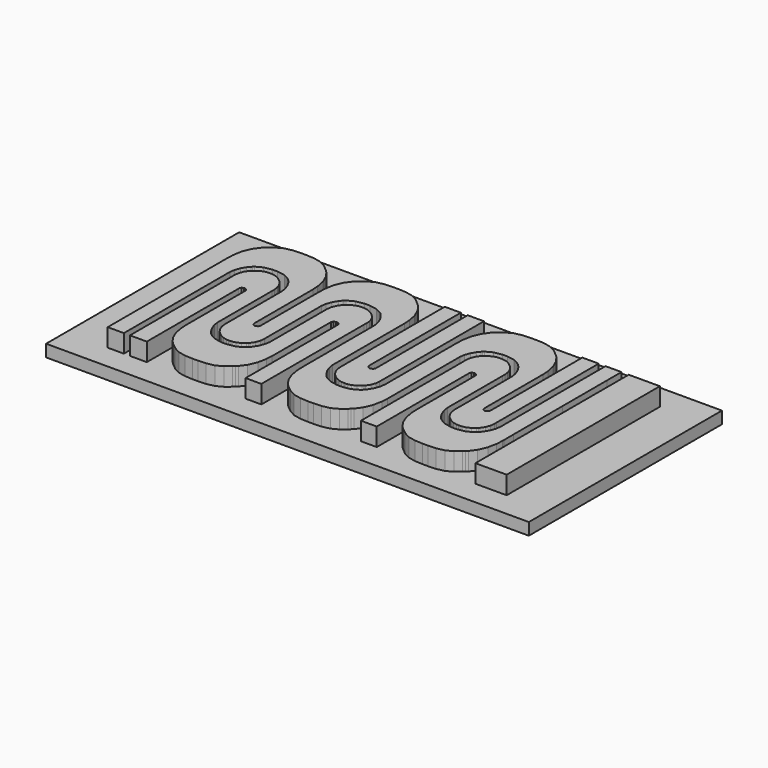
from build123d import *

# Parameters (mm, degrees)
F0_W     = 80
F0_H     = 40
F1_DEPTH = 2
F3_DEPTH = 5


with BuildPart() as f1:
    # F0 (on Top) → F1 (new body)
    with BuildSketch(Plane.XY):
        Rectangle(F0_W, F0_H)
    extrude(amount=F1_DEPTH)

    # F2 (on Top) → F3 (join)
    with BuildSketch(Plane.XY):
        Polygon((7.7198474, -8.9033858), (7.7198474, -8.5368384), (7.7198474, -4.9567084), (7.7198474, 3.0965648), (7.7198474, 5.7795668), (7.7198474, 6.0442348), (7.8384654, 6.8379848), (8.1524094, 7.7282548), (8.5948774, 8.4600288), (8.9641934, 8.9091008), (9.1005914, 9.0442288), (9.2684854, 9.2136468), (10.3281734, 9.7869248), (11.6141754, 10.0198428), (12.0441974, 10.0198428), (12.4714254, 10.0198428), (13.7541254, 9.7869248), (14.8110194, 9.2136468), (14.9806914, 9.0442288), (15.1173434, 8.9078308), (15.4960574, 8.4600288), (15.9590994, 7.7282548), (16.2926014, 6.8379848), (16.4208714, 6.0442348), (16.4208714, 5.7795668), (16.4208714, 3.0483048), (16.4208714, -3.0991048), (16.4208714, -5.1496214), (16.4208714, -5.308092), (16.4150294, -5.7876694), (16.4785294, -6.487668), (16.7266874, -7.2249538), (17.1140374, -7.8106016), (17.2765974, -7.9746094), (17.4363634, -8.13308), (17.9806854, -8.5492336), (18.6118754, -8.8579198), (19.1699134, -8.983345), (19.5336414, -9.0067638), (19.6563234, -9.0067638), (19.7764654, -9.0067638), (20.1373994, -8.983345), (20.6926434, -8.8579198), (21.3212934, -8.5492336), (21.8612974, -8.13308), (22.0210634, -7.9746094), (22.1836234, -7.8106016), (22.5806254, -7.2249538), (22.8452934, -6.487668), (22.9235254, -5.7876694), (22.9263194, -5.308092), (22.9263194, -5.1496214), (22.9263194, 0.0924306), (22.9263194, 11.8857268), (22.9263194, 15.8158688), (22.2496634, 15.8158688), (20.7271874, 15.8158688), (20.2199494, 15.8158688), (20.2199494, 13.4498588), (20.2199494, 6.3472568), (20.2199494, -0.7536688), (20.2199494, -3.121152), (20.2199494, -3.2244792), (20.0822814, -3.5387026), (19.7627494, -3.7123116), (19.6563234, -3.7123116), (19.5613274, -3.7123116), (19.2776094, -3.5387026), (19.1917574, -3.2244792), (19.1917574, -3.121152), (19.1917574, -2.4334978), (19.1917574, -0.370586), (19.1917574, 2.778252), (19.1917574, 5.8994548), (19.1917574, 7.9004668), (19.1917574, 8.5674708), (19.1917574, 8.9339928), (19.1163194, 10.0294948), (18.8280294, 11.4694208), (18.2273194, 12.8405128), (17.5051974, 13.8217148), (17.2158914, 14.0947648), (16.9484294, 14.3485108), (16.0927034, 15.0482808), (15.0413974, 15.6078428), (13.7815574, 15.8725108), (12.4724414, 15.9382968), (12.0370854, 15.9382968), (11.6017294, 15.9382968), (10.2954074, 15.8725108), (9.0398854, 15.6078428), (7.9885794, 15.0482808), (7.1300594, 14.3469868), (6.8625974, 14.0947648), (6.5748154, 13.8229848), (5.8664094, 12.8405128), (5.2997354, 11.4694208), (5.0464974, 10.0294948), (4.9885854, 8.9339928), (4.9885854, 8.5674708), (4.9885854, 8.1387188), (4.9885854, 6.8489068), (4.9885854, 4.7737268), (4.9885854, 2.50952), (4.9885854, 0.2261108), (4.9885854, -1.9098514), (4.9885854, -3.728847), (4.9885854, -5.0655728), (4.9885854, -5.5781956), (4.9885854, -5.7490614), (4.9885854, -6.0136532), (4.8671734, -6.8087748), (4.5529754, -7.7045058), (4.1105074, -8.4417408), (3.7455094, -8.8937338), (3.6103814, -9.0315542), (3.4381694, -9.1996514), (2.3741634, -9.7729294), (1.0901934, -10.0071936), (0.6629654, -10.0071936), (0.2329434, -10.0071936), (-1.0555986, -9.7729294), (-2.1124926, -9.1996514), (-2.2806406, -9.0315542), (-2.4183086, -8.8923622), (-2.7960066, -8.4417408), (-3.2603186, -7.7045058), (-3.5966146, -6.8087748), (-3.7248846, -6.0136532), (-3.7248846, -5.7490614), (-3.7248846, -2.1675344), (-3.7248846, 5.8898028), (-3.7248846, 8.5755988), (-3.7248846, 8.9421208), (-3.8005766, 10.0391468), (-4.0901366, 11.4762788), (-4.6936406, 12.8435608), (-5.4198266, 13.8217148), (-5.7106566, 14.0947648), (-5.9750706, 14.3469868), (-6.8170806, 15.0482808), (-7.8409546, 15.6078428), (-9.0743786, 15.8725108), (-10.3766366, 15.9382968), (-10.8091986, 15.9382968), (-11.2488726, 15.9382968), (-12.5635766, 15.8725108), (-13.8450066, 15.6078428), (-14.9200108, 15.0482808), (-15.7854142, 14.3495268), (-16.0527492, 14.0947648), (-16.3407344, 13.8245088), (-17.044924, 12.8435608), (-17.5961294, 11.4762788), (-17.8317906, 10.0391468), (-17.8813968, 8.9421208), (-17.8813968, 8.5755988), (-17.8813968, 5.6515508), (-17.8813968, -0.9273032), (-17.8813968, -3.121152), (-17.8813968, -3.2244792), (-17.9971446, -3.5387026), (-18.3030622, -3.7123116), (-18.4050686, -3.7123116), (-18.5083958, -3.7123116), (-18.817082, -3.5387026), (-18.93697, -3.2244792), (-18.93697, -3.121152), (-18.93697, -0.1969516), (-18.93697, 6.3830708), (-18.93697, 8.5755988), (-18.93697, 8.9421208), (-19.009995, 10.0376228), (-19.2925192, 11.4737388), (-19.8891906, 12.8420368), (-20.6099156, 13.8217148), (-20.8992978, 14.0947648), (-21.1666328, 14.3485108), (-22.021038, 15.0482808), (-23.0697024, 15.6078428), (-24.3292122, 15.8725108), (-25.6397506, 15.9382968), (-26.0766052, 15.9382968), (-26.5120374, 15.9382968), (-27.8184356, 15.8725108), (-29.0738306, 15.6078428), (-30.122495, 15.0482808), (-30.9769002, 14.3469868), (-31.2428636, 14.0947648), (-31.5308742, 13.8245088), (-32.23641, 12.8420368), (-32.7862692, 11.4737388), (-33.023302, 10.0376228), (-33.0728828, 8.9421208), (-33.0728828, 8.5755988), (-33.0728828, -15.8914338), (-32.4031864, -15.8914338), (-30.8969664, -15.8914338), (-30.3939702, -15.8914338), (-30.3939702, -13.1821936), (-30.3939702, -5.0586894), (-30.3939702, 3.0663388), (-30.3939702, 5.7739788), (-30.3939702, 6.0401708), (-30.2740822, 6.8339208), (-29.9599096, 7.7254608), (-29.516197, 8.4585048), (-29.1496242, 8.9078308), (-29.0132008, 9.0442288), (-28.8450528, 9.2136468), (-27.7825962, 9.7869248), (-26.496899, 10.0198428), (-26.0669278, 10.0198428), (-25.638379, 10.0198428), (-24.3526564, 9.7869248), (-23.2888028, 9.2136468), (-23.117937, 9.0442288), (-22.9842568, 8.9078308), (-22.620478, 8.4585048), (-22.1836234, 7.7254608), (-21.872194, 6.8339208), (-21.7523314, 6.0401708), (-21.7523314, 5.7739788), (-21.7523314, 3.0442408), (-21.7523314, -3.1004764), (-21.7523314, -5.1496214), (-21.7523314, -5.308092), (-21.7467942, -5.7876694), (-21.659977, -6.487668), (-21.3885018, -7.2249538), (-20.9916268, -7.80923), (-20.8276698, -7.9746094), (-20.6677768, -8.13308), (-20.1248518, -8.5492336), (-19.4964558, -8.8579198), (-18.9411102, -8.983345), (-18.5814462, -9.0067638), (-18.4615328, -9.0067638), (-18.3402986, -9.0067638), (-17.976469, -8.983345), (-17.4211234, -8.8579198), (-16.7913812, -8.5492336), (-16.2498024, -8.13308), (-16.0899602, -7.9746094), (-15.927324, -7.8106016), (-15.5346146, -7.2249538), (-15.2769062, -6.487668), (-15.2038812, -5.7876694), (-15.2038812, -5.308092), (-15.2038812, -5.1496214), (-15.2038812, -4.7348394), (-15.2038812, -3.4946082), (-15.2038812, -0.4394708), (-15.2038812, 2.9919168), (-15.2038812, 5.0795428), (-15.2038812, 5.7739788), (-15.2038812, 6.0401708), (-15.0839678, 6.8339208), (-14.7684236, 7.7254608), (-14.3246856, 8.4585048), (-13.9580366, 8.9078308), (-13.8231626, 9.0442288), (-13.6522206, 9.2136468), (-12.5551946, 9.7869248), (-11.2460786, 10.0198428), (-10.8091986, 10.0198428), (-10.3753666, 10.0198428), (-9.0715846, 9.7869248), (-7.9829406, 9.2136468), (-7.8135226, 9.0442288), (-7.6783946, 8.9078308), (-7.3078086, 8.4585048), (-6.8584826, 7.7254608), (-6.5386966, 6.8339208), (-6.4160146, 6.0401708), (-6.4160146, 5.7739788), (-6.4160146, 2.1994622), (-6.4160146, -5.8441336), (-6.4160146, -8.5258148), (-6.4160146, -8.8965278), (-6.3652146, -10.0099622), (-6.1239146, -11.4596672), (-5.5727346, -12.8321816), (-4.8699166, -13.8133582), (-4.5818806, -14.084808), (-4.3159426, -14.3356076), (-3.4604706, -15.035657), (-2.4086566, -15.5951428), (-1.1508486, -15.8597092), (0.1569974, -15.9272478), (0.5941314, -15.9272478), (1.0307574, -15.9272478), (2.3413974, -15.8597092), (3.6007294, -15.5951428), (4.6510194, -15.035657), (5.5052214, -14.3356076), (5.7724294, -14.084808), (6.0622434, -13.8105642), (6.7785234, -12.829413), (7.3698354, -11.455527), (7.6497434, -10.0071936), align=None)
        Polygon((24.4962934, -14.3356076), (24.7647714, -14.084808), (25.0543314, -13.8105642), (25.7736594, -12.829413), (26.3700514, -11.455527), (26.6540234, -10.0071936), (26.7271754, -8.9033858), (26.7271754, -8.5368384), (26.7200634, -6.5469516), (26.7063474, 3.6368228), (26.7035534, 12.7719328), (26.7035534, 15.8158688), (26.0421374, 15.8158688), (24.5552214, 15.8158688), (24.0604294, 15.8158688), (24.0604294, 13.1232148), (24.0604294, 5.0424588), (24.0604294, -3.0412182), (24.0604294, -5.7366408), (24.0604294, -6.0012326), (23.9268254, -6.7963542), (23.5849414, -7.6962254), (23.1150414, -8.4389976), (22.7375974, -8.8923622), (22.6011994, -9.0315542), (22.4289874, -9.1996514), (21.3662514, -9.7729294), (20.0835514, -10.0071936), (19.6563234, -10.0071936), (19.2263014, -10.0071936), (17.9395374, -9.7729294), (16.8783254, -9.1996514), (16.7086534, -9.0315542), (16.5709854, -8.8937338), (16.2070034, -8.4389976), (15.7772354, -7.6962254), (15.4767534, -6.7963542), (15.3637234, -6.0012326), (15.3637234, -5.7366408), (15.3637234, -4.3710098), (15.3637234, -0.2741422), (15.3637234, 3.8186868), (15.3637234, 5.1829208), (15.3637234, 5.3426868), (15.3652474, 5.8194448), (15.2936194, 6.5126108), (15.0370794, 7.2415908), (14.6459194, 7.8204568), (14.4846294, 7.9817468), (14.3246094, 8.1415128), (13.7843514, 8.5603588), (13.1574794, 8.8720168), (12.6022354, 8.9972388), (12.2382534, 9.0208608), (12.1186194, 9.0208608), (11.9972074, 9.0208608), (11.6360194, 8.9972388), (11.0807754, 8.8720168), (10.4511094, 8.5603588), (9.9095814, 8.1415128), (9.7498154, 7.9817468), (9.5870014, 7.8219808), (9.1983814, 7.2415908), (8.9504774, 6.5126108), (8.8867234, 5.8194448), (8.8925654, 5.3426868), (8.8925654, 5.1829208), (8.8925654, -0.0853186), (8.8925654, -11.9392192), (8.8925654, -15.8914338), (9.2192094, -15.8914338), (10.2016814, -15.8914338), (11.1813594, -15.8914338), (11.5095274, -15.8914338), (11.5095274, -13.5088122), (11.5095274, -6.3622936), (11.5095274, 0.785622), (11.5095274, 3.1669228), (11.5095274, 3.2675068), (11.6294154, 3.5651948), (11.9395494, 3.7208968), (12.0441974, 3.7208968), (12.1460514, 3.7208968), (12.4533914, 3.5651948), (12.5704854, 3.2675068), (12.5704854, 3.1669228), (12.5773434, 3.0594808), (12.5773434, 2.6418286), (12.5814074, 1.5021814), (12.5814074, -0.0770636), (12.5801374, -1.9236182), (12.5773434, -3.8652704), (12.5732794, -5.7297828), (12.5704854, -7.3434448), (12.5704854, -8.2378042), (12.5704854, -8.5368384), (12.5704854, -8.9033858), (12.6228094, -10.0071936), (12.8653794, -11.455527), (13.4178294, -12.829413), (14.1206474, -13.8133582), (14.4089374, -14.084808), (14.6763994, -14.3356076), (15.5359354, -15.035657), (16.5887654, -15.5951428), (17.8455574, -15.8597092), (19.1506094, -15.9272478), (19.5862194, -15.9272478), (20.0215754, -15.9272478), (21.3278974, -15.8597092), (22.5859594, -15.5951428), (23.6390434, -15.035657), align=None)
        Polygon((-7.6136246, 2.5508712), (-7.6136246, 5.1829208), (-7.6136246, 5.3442108), (-7.5983846, 5.8237628), (-7.6369926, 6.5169288), (-7.8630526, 7.2443848), (-8.2432906, 7.8245208), (-8.4033106, 7.9830168), (-8.5643466, 8.1443068), (-9.1114626, 8.5603588), (-9.7538286, 8.8720168), (-10.3243126, 8.9972388), (-10.6880406, 9.0208608), (-10.8091986, 9.0208608), (-10.9290866, 9.0208608), (-11.2862106, 8.9972388), (-11.8290086, 8.8720168), (-12.4449586, 8.5603588), (-12.9811526, 8.1430368), (-13.1396486, 7.9830168), (-13.3034786, 7.8219808), (-13.7045446, 7.2443848), (-13.9816586, 6.5169288), (-14.0725906, 5.8237628), (-14.0794486, 5.3442108), (-14.0794486, 5.1829208), (-14.0794486, 2.4516334), (-14.0794486, -3.6930584), (-14.0794486, -5.742178), (-14.0794486, -6.0067698), (-14.2089886, -6.8018914), (-14.5410174, -7.6989686), (-15.0026624, -8.4403692), (-15.3774902, -8.8923622), (-15.513939, -9.0315542), (-15.6820362, -9.2010484), (-16.7417496, -9.774301), (-18.0316124, -10.0085906), (-18.4615328, -10.0085906), (-18.8901324, -10.0085906), (-20.1730864, -9.774301), (-21.235543, -9.2010484), (-21.4050372, -9.0315542), (-21.5414606, -8.8923622), (-21.909405, -8.4403692), (-22.3572578, -7.6989686), (-22.6783646, -6.8018914), (-22.7996242, -6.0067698), (-22.7996242, -5.742178), (-22.7996242, -4.3751754), (-22.7996242, -0.278257), (-22.7996242, 3.8186868), (-22.7996242, 5.1829208), (-22.7996242, 5.3426868), (-22.8078792, 5.8194448), (-22.898862, 6.5126108), (-23.1758236, 7.2415908), (-23.5740702, 7.8204568), (-23.7367064, 7.9830168), (-23.8979202, 8.1430368), (-24.4408452, 8.5603588), (-25.066498, 8.8720168), (-25.620472, 8.9972388), (-25.9828792, 9.0208608), (-26.1027672, 9.0208608), (-26.2240268, 9.0208608), (-26.5850878, 8.9972388), (-27.1404334, 8.8720168), (-27.7701756, 8.5603588), (-28.3117544, 8.1430368), (-28.471622, 7.9830168), (-28.6342328, 7.8204568), (-29.0311078, 7.2415908), (-29.2984428, 6.5126108), (-29.3825168, 5.8194448), (-29.38526, 5.3426868), (-29.38526, 5.1829208), (-29.38526, 4.6137068), (-29.38526, 2.9063188), (-29.38526, -0.0591566), (-29.38526, -3.4215578), (-29.38526, -6.88594), (-29.38526, -10.1587808), (-29.38526, -12.9465578), (-29.38526, -14.9557232), (-29.38526, -15.6585158), (-29.38526, -15.8928054), (-28.6879792, -15.8928054), (-27.1170146, -15.8928054), (-26.5919712, -15.8928054), (-26.5919712, -13.5115554), (-26.5919712, -6.3705486), (-26.5919712, 0.7704328), (-26.5919712, 3.1504128), (-26.5919712, 3.2535368), (-26.4762234, 3.5608768), (-26.1703058, 3.7208968), (-26.0669278, 3.7208968), (-25.9649722, 3.7208968), (-25.6563114, 3.5624008), (-25.5336294, 3.2606488), (-25.5336294, 3.1600648), (-25.5336294, 0.2357628), (-25.5336294, -6.343015), (-25.5336294, -8.5368384), (-25.5336294, -8.9033858), (-25.482677, -10.0071936), (-25.2428756, -11.455527), (-24.6902986, -12.83081), (-23.986109, -13.8133582), (-23.6967268, -14.084808), (-23.4293918, -14.3356076), (-22.5722434, -15.035657), (-21.520785, -15.5951428), (-20.2640184, -15.8597092), (-18.9576456, -15.9272478), (-18.522188, -15.9272478), (-18.086705, -15.9272478), (-16.7762174, -15.8597092), (-15.5180792, -15.5951428), (-14.469364, -15.035657), (-13.6148826, -14.3356076), (-13.3476746, -14.084808), (-13.0583686, -13.8119866), (-12.3403106, -12.83081), (-11.7492526, -11.455527), (-11.4734086, -10.0071936), (-11.4033046, -8.9033858), (-11.4033046, -8.5368384), (-11.4033046, -5.612638), (-11.4033046, 0.9675114), (-11.4033046, 3.1600648), (-11.4033046, 3.2606488), (-11.2529366, 3.5580828), (-10.9209586, 3.7208968), (-10.8091986, 3.7208968), (-10.7004866, 3.7208968), (-10.3725726, 3.5580828), (-10.2237286, 3.2606488), (-10.2237286, 3.1600648), (-10.2237286, 0.7786878), (-10.2237286, -6.3664338), (-10.2237286, -13.5101838), (-10.2237286, -15.8928054), (-9.5717106, -15.8928054), (-8.1043526, -15.8928054), (-7.6136246, -15.8928054), (-7.6136246, -13.2566156), (-7.6136246, -5.3494432), align=None)
        Polygon((-2.5836626, -1.2194286), (-2.5836626, -5.1510184), (-2.5836626, -5.3094636), (-2.5864566, -5.789041), (-2.5163526, -6.489065), (-2.2613366, -7.2263254), (-1.8686526, -7.8119732), (-1.7060926, -7.975981), (-1.5475966, -8.1344516), (-1.0070846, -8.5506306), (-0.3789426, -8.8592914), (0.1793494, -8.9847166), (0.5415534, -9.0081354), (0.6629654, -9.0081354), (0.7828534, -9.0081354), (1.1437874, -8.9847166), (1.6980154, -8.8592914), (2.3276814, -8.5506306), (2.8704794, -8.1344516), (3.0317694, -7.975981), (3.1930594, -7.8119732), (3.5857434, -7.2263254), (3.8420294, -6.489065), (3.9136574, -5.789041), (3.9136574, -5.3094636), (3.9136574, -5.1510184), (3.9136574, -4.6011592), (3.9136574, -2.9530294), (3.9136574, -0.0357378), (3.9136574, 3.3033208), (3.9136574, 6.7635628), (3.9136574, 10.0447348), (3.9136574, 12.8463548), (3.9136574, 14.8704808), (3.9136574, 15.5804108), (3.9136574, 15.8158688), (3.2400494, 15.8158688), (1.7254474, 15.8158688), (1.2210034, 15.8158688), (1.2210034, 13.4498588), (1.2210034, 6.3472568), (1.2210034, -0.7550404), (1.2210034, -3.1225236), (1.2210034, -3.2258508), (1.0858754, -3.5387026), (0.7676134, -3.7123116), (0.6629654, -3.7123116), (0.5524754, -3.7123116), (0.2248154, -3.5387026), (0.0787654, -3.2258508), (0.0787654, -3.1225236), (0.0787654, -0.7550404), (0.0787654, 6.3472568), (0.0787654, 13.4498588), (0.0787654, 15.8158688), (-0.5869686, 15.8158688), (-2.0848066, 15.8158688), (-2.5836626, 15.8158688), (-2.5836626, 10.5750868), align=None)
        Polygon((27.8998934, 15.8158688), (27.8998934, -15.9382714), (33.0728574, -15.9286448), (33.0591414, 15.8158688), align=None)
    extrude(amount=F3_DEPTH)


with BuildPart() as f1_1:
    # F4: moved
    add(f1.part)


solid = f1_1.part
